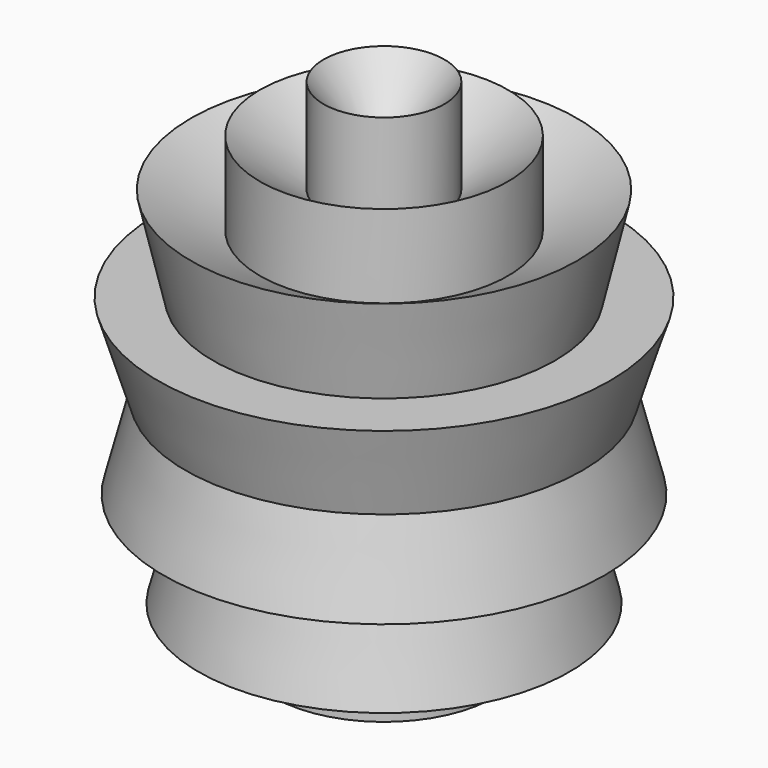
from build123d import *


with BuildPart() as f1:
    # F0 (on Front) → F1 (revolve)
    with BuildSketch(Plane.XZ):
        with BuildLine():
            Line((0, -16.904561), (0, -12.7))
            ThreePointArc((0, -12.7), (-1.65751, -12.591372), (-3.286666, -12.267348))
            Line((-3.286666, -12.267348), (0, -16.904561))
        make_face()
        with BuildLine():
            Line((-7.27579, -15.094675), (-3.286666, -12.267348))
            ThreePointArc((-3.286666, -12.267348), (-5.362321, -11.512407), (-7.27579, -10.409269))
            Line((-7.27579, -10.409269), (-7.27579, -15.094675))
        make_face()
        with BuildLine():
            Line((-12.250861, -11.988905), (-7.27579, -10.409269))
            ThreePointArc((-7.27579, -10.409269), (-9.268421, -8.682533), (-10.861549, -6.581547))
            Line((-10.861549, -6.581547), (-12.250861, -11.988905))
        make_face()
        with BuildLine():
            Line((0, 0), (0, 12.7))
            ThreePointArc((0, 12.7), (-2.020944, 12.538173), (-3.990386, 12.056816))
            ThreePointArc((-3.990386, 12.056816), (-6.204223, 11.081409), (-8.192936, 9.703906))
            ThreePointArc((-8.192936, 9.703906), (-9.940865, 7.903746), (-11.30076, 5.795069))
            ThreePointArc((-11.30076, 5.795069), (-12.692011, -0.450404), (-10.861549, -6.581547))
            ThreePointArc((-10.861549, -6.581547), (-9.268421, -8.682533), (-7.27579, -10.409269))
            ThreePointArc((-7.27579, -10.409269), (-5.362321, -11.512407), (-3.286666, -12.267348))
            ThreePointArc((-3.286666, -12.267348), (-1.65751, -12.591372), (0, -12.7))
            Line((0, -12.7), (0, 0))
        make_face()
        with BuildLine():
            ThreePointArc((-10.861549, -6.581547), (-12.692011, -0.450404), (-11.30076, 5.795069))
            Line((-11.30076, 5.795069), (-14.924208, 5.795069))
            Line((-14.924208, 5.795069), (-13.112484, 0))
            Line((-13.112484, 0), (-14.559376, -5.631464))
            Line((-14.559376, -5.631464), (-10.861549, -6.581547))
        make_face()
        with BuildLine():
            ThreePointArc((-11.30076, 5.795069), (-9.940865, 7.903746), (-8.192936, 9.703906))
            Line((-8.192936, 9.703906), (-12.747521, 12.056816))
            Line((-12.747521, 12.056816), (-11.30076, 5.795069))
        make_face()
        with BuildLine():
            ThreePointArc((-8.192936, 9.703906), (-6.204223, 11.081409), (-3.990386, 12.056816))
            Line((-3.990386, 12.056816), (-8.192936, 15.187172))
            Line((-8.192936, 15.187172), (-8.192936, 9.703906))
        make_face()
        with BuildLine():
            ThreePointArc((-3.990386, 12.056816), (-2.020944, 12.538173), (0, 12.7))
            Line((0, 12.7), (-3.990386, 18.317528))
            Line((-3.990386, 18.317528), (-3.990386, 12.056816))
        make_face()
    revolve(axis=Axis((0, 0, -6.35), (0, 0, -1)))


solid = f1.part
